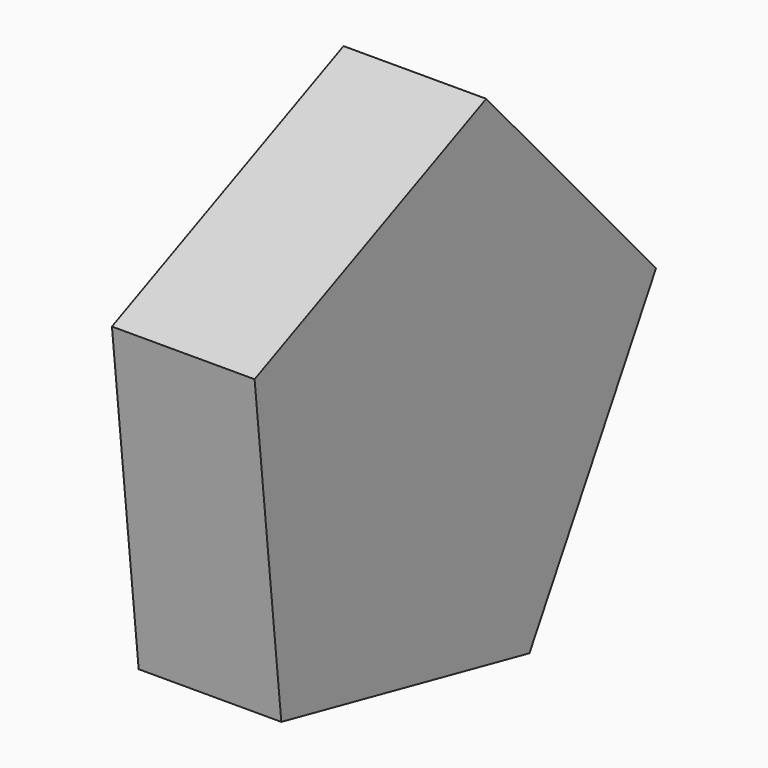
from build123d import *

# Parameters (mm, degrees)
F1_DEPTH = 25.4
F2_R     = 7.488369
F3_DEPTH = 12.7


with BuildPart() as f1:
    # F0 (on Right) → F1 (new body)
    with BuildSketch(Plane.YZ):
        Polygon((19.569545, -43.848365), (47.749595, 5.061853), (9.941328, 46.976762), (-41.605517, 23.971383), (-35.654951, -32.161633), align=None)
    extrude(amount=F1_DEPTH)

    # F2 (on face) → F3 (join)
    with BuildSketch(Plane(origin=(0, 0, 0), x_dir=(0, -1, 0), z_dir=(-1, 0, 0))):
        Circle(F2_R)
    extrude(amount=F3_DEPTH)


solid = f1.part
